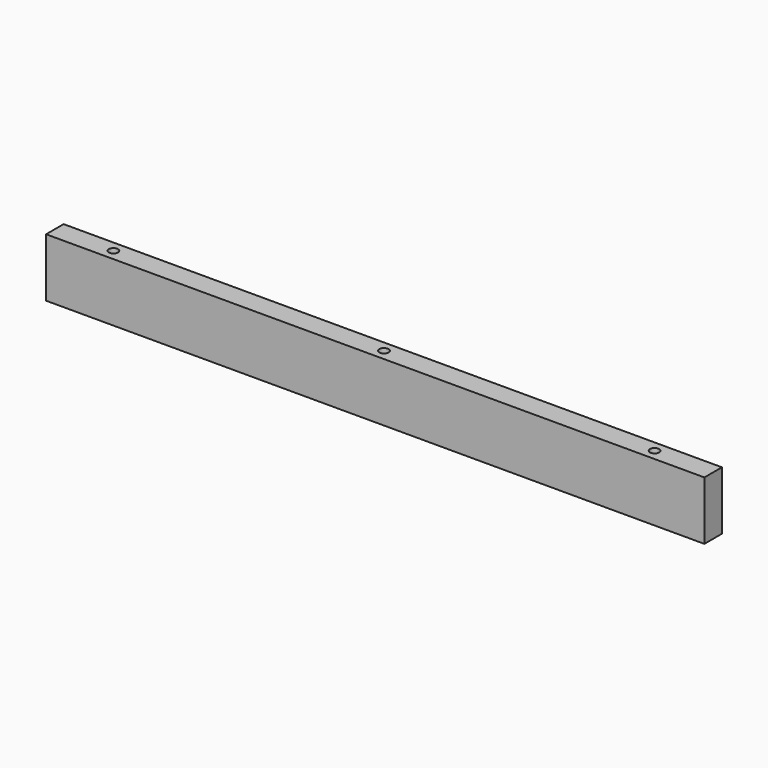
from build123d import *

# Parameters (mm, degrees)
F0_W     = 571.5
F0_H     = 50.8
F1_DEPTH = 19.05
F3_D     = 15.0114
F3_DEPTH = 14.224
F3_TIP   = 4.5098795482
F5_D     = 8.001
F5_DEPTH = 25.4
F5_TIP   = 2.4037429064


with BuildPart() as f1:
    # F0 (on Front) → F1 (new body)
    with BuildSketch(Plane.XZ):
        Rectangle(F0_W, F0_H)
    extrude(amount=F1_DEPTH)

    # F3
    with Locations(Plane(origin=(0, 0, 0), x_dir=(-1, 0, 0), z_dir=(0, 1, 0))):
        with Locations((234.95, 1.524), (0, 1.524), (-234.95, 1.524)):
            Hole(F3_D / 2, depth=F3_DEPTH)
            with Locations((0, 0, -(F3_DEPTH + F3_TIP / 2))):  # 118° drill point
                Cone(0, F3_D / 2, F3_TIP, mode=Mode.SUBTRACT)

    # F5
    with Locations(Plane.XY.offset(25.4)):
        with Locations((-234.95, -9.525), (0, -9.525), (234.95, -9.525)):
            Hole(F5_D / 2, depth=F5_DEPTH)
            with Locations((0, 0, -(F5_DEPTH + F5_TIP / 2))):  # 118° drill point
                Cone(0, F5_D / 2, F5_TIP, mode=Mode.SUBTRACT)


solid = f1.part
